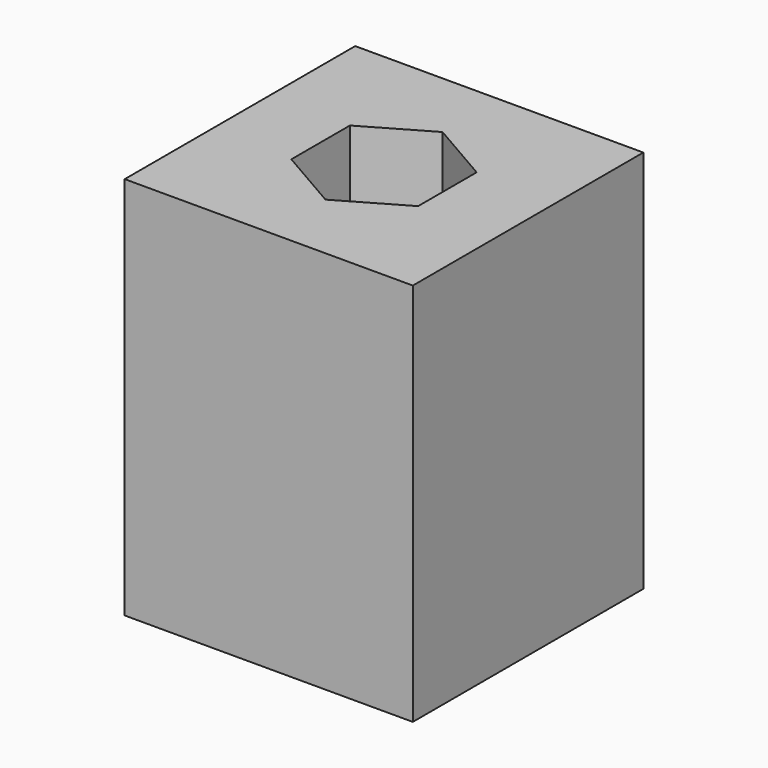
from build123d import *

# Parameters (mm, degrees)
F0_W     = 15
F0_H     = 15
F1_DEPTH = 20
F3_DEPTH = 5
F5_DEPTH = 5
F7_DEPTH = 5
F9_DEPTH = 5


with BuildPart() as f1:
    # F0 (on Top) → F1 (new body)
    with BuildSketch(Plane.XY):
        Rectangle(F0_W, F0_H)
    extrude(amount=F1_DEPTH)

    # F2 (on face) → F3 (cut)
    with BuildSketch(Plane.XY.offset(20)):
        Polygon((3.3, -1.905256), (3.3, 1.905256), (0, 3.810512), (-3.3, 1.905256), (-3.3, -1.905256), (0, -3.810512), align=None)
    extrude(amount=-F3_DEPTH, mode=Mode.SUBTRACT)

    # F4 (on face) → F5 (cut)
    with BuildSketch(Plane.XY.offset(15)):
        Polygon((3.2, -1.847521), (3.2, 1.847521), (0, 3.695042), (-3.2, 1.847521), (-3.2, -1.847521), (0, -3.695042), align=None)
        Polygon((3.2, -1.847521), (3.2, 1.847521), (0, 3.695042), (-3.2, 1.847521), (-3.2, -1.847521), (0, -3.695042), align=None)
    extrude(amount=-F5_DEPTH, mode=Mode.SUBTRACT)

    # F6 (on face) → F7 (cut)
    with BuildSketch(Plane.XY.offset(10)):
        Polygon((3.1, -1.789786), (3.1, 1.789786), (0, 3.579572), (-3.1, 1.789786), (-3.1, -1.789786), (0, -3.579572), align=None)
    extrude(amount=-F7_DEPTH, mode=Mode.SUBTRACT)

    # F8 (on face) → F9 (cut)
    with BuildSketch(Plane.XY.offset(5)):
        Polygon((3, -1.732051), (3, 1.732051), (0, 3.464102), (-3, 1.732051), (-3, -1.732051), (0, -3.464102), align=None)
    extrude(amount=-F9_DEPTH, mode=Mode.SUBTRACT)


solid = f1.part
